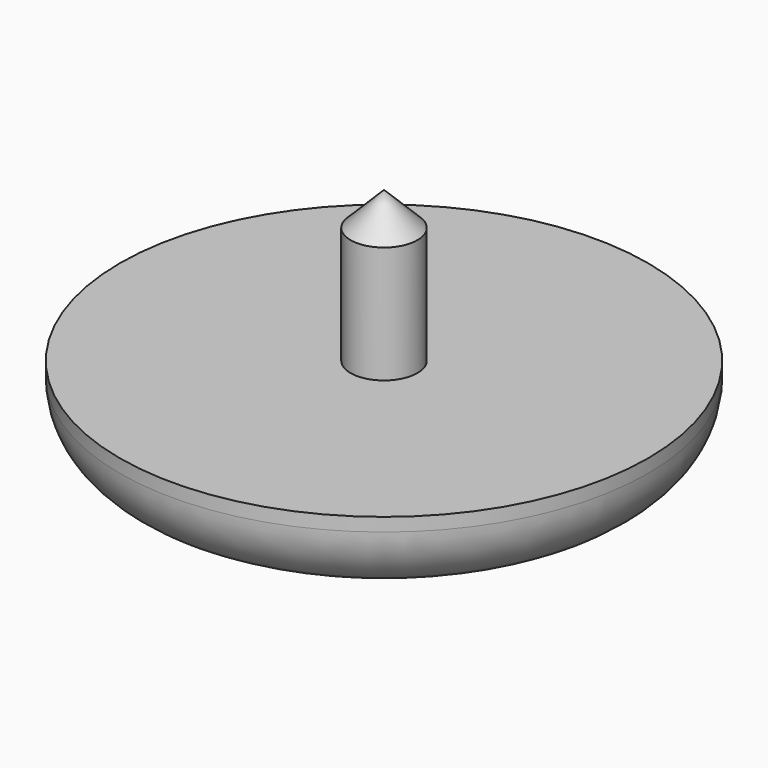
from build123d import *

# Parameters (mm, degrees)
F0_R     = 7.9
F1_DEPTH = 2.4
F2_R     = 1
F3_DEPTH = 4.5
F4_R     = 2
F5_SIZE  = 1


with BuildPart() as f1:
    # F0 (on Top) → F1 (new body)
    with BuildSketch(Plane.XY):
        Circle(F0_R)
    extrude(amount=-F1_DEPTH)

    # F2 (on face) → F3 (join)
    with BuildSketch(Plane.XY):
        Circle(F2_R)
    extrude(amount=F3_DEPTH)

    # F4
    f4_edges = [f1.edges().sort_by_distance(p)[0] for p in [
        (-7.9, 0, -2.4),
    ]]
    fillet(f4_edges, radius=F4_R)

    # F5
    f5_edges = [f1.edges().sort_by_distance(p)[0] for p in [
        (-1, 0, 4.5),
    ]]
    chamfer(f5_edges, length=F5_SIZE)


solid = f1.part
